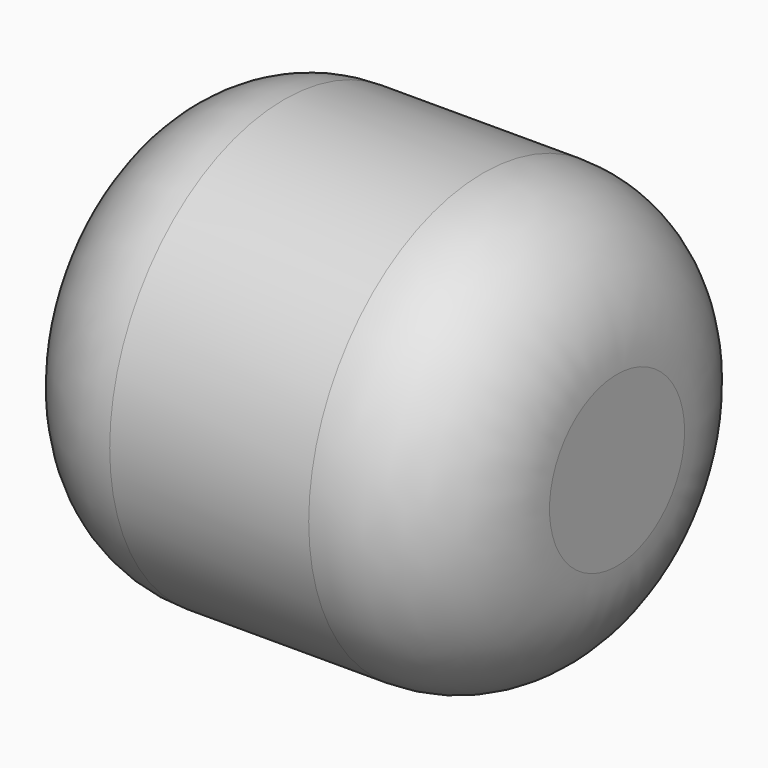
from build123d import *

# Parameters (mm, degrees)
SKETCH004_R  = 327.882384
PAD003_DEPTH = 350
FILLET_R     = 200
FILLET001_R  = 201


with BuildPart() as part:
    # Sketch004 → Pad003 (new body, symmetric)
    with BuildSketch(Plane.YZ):
        Circle(SKETCH004_R)
    extrude(amount=PAD003_DEPTH, both=True)

    # Fillet
    fillet_edges = [part.edges().sort_by_distance(p)[0] for p in [
        (-350, -327.882384, 0),
    ]]
    fillet(fillet_edges, radius=FILLET_R)

    # Fillet001
    fillet001_edges = [part.edges().sort_by_distance(p)[0] for p in [
        (350, -327.882384, 0),
    ]]
    fillet(fillet001_edges, radius=FILLET001_R)


with BuildPart() as part_1:
    # Body003 placement: moved
    add(part.part.moved(Location((-489, 0, 832))))


solid = part_1.part
